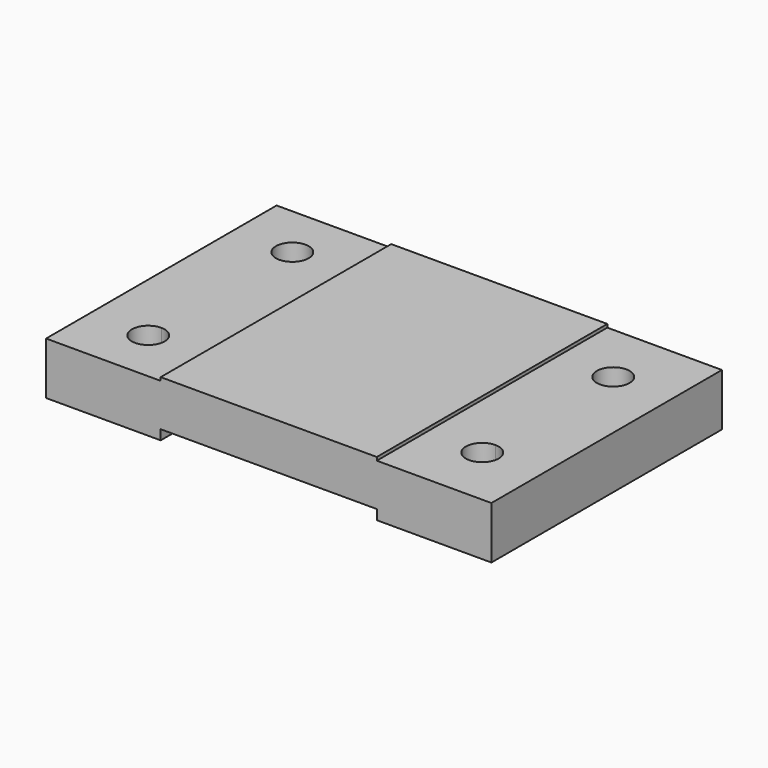
from build123d import *

# Parameters (mm, degrees)
F1_DEPTH = 44
F5_DEPTH = 25
F6_DEPTH = 25


with BuildPart() as f1:
    # F0 (on Front) → F1 (new body, symmetric)
    with BuildSketch(Plane.XZ):
        Polygon((-68, 0), (-33, 0), (-33, 3), (-33, 16), (-68, 16), align=None)
        Polygon((-33, 16), (-33, 3), (33, 3), (33, 16), (33, 17), (-33, 17), align=None)
        Polygon((33, 16), (33, 3), (33, 0), (68, 0), (68, 16), align=None)
    extrude(amount=F1_DEPTH, both=True)

    # F3 (on offset) → F5 (cut)
    with BuildSketch(Plane.XY.offset(16)):
        with BuildLine():
            ThreePointArc((55, 25), (46.4644660941, 28.5355339059), (50, 20))
            ThreePointArc((50, 20), (53.5355339059, 21.4644660941), (55, 25))
        make_face()
        with BuildLine():
            ThreePointArc((55, -25), (53.5355339059, -21.4644660941), (50, -20))
            ThreePointArc((50, -20), (46.4644660941, -28.5355339059), (55, -25))
        make_face()
    extrude(amount=-F5_DEPTH, mode=Mode.SUBTRACT)

    # F4 (on face) → F6 (cut)
    with BuildSketch(Plane.XY.offset(16)):
        with BuildLine():
            ThreePointArc((-45, -27.5), (-46.4644660941, -23.9644660941), (-50, -22.5))
            ThreePointArc((-50, -22.5), (-53.5355339059, -31.0355339059), (-45, -27.5))
        make_face()
        with BuildLine():
            ThreePointArc((-45, 27.5), (-53.5355339059, 31.0355339059), (-50, 22.5))
            ThreePointArc((-50, 22.5), (-46.4644660941, 23.9644660941), (-45, 27.5))
        make_face()
    extrude(amount=-F6_DEPTH, mode=Mode.SUBTRACT)


solid = f1.part
